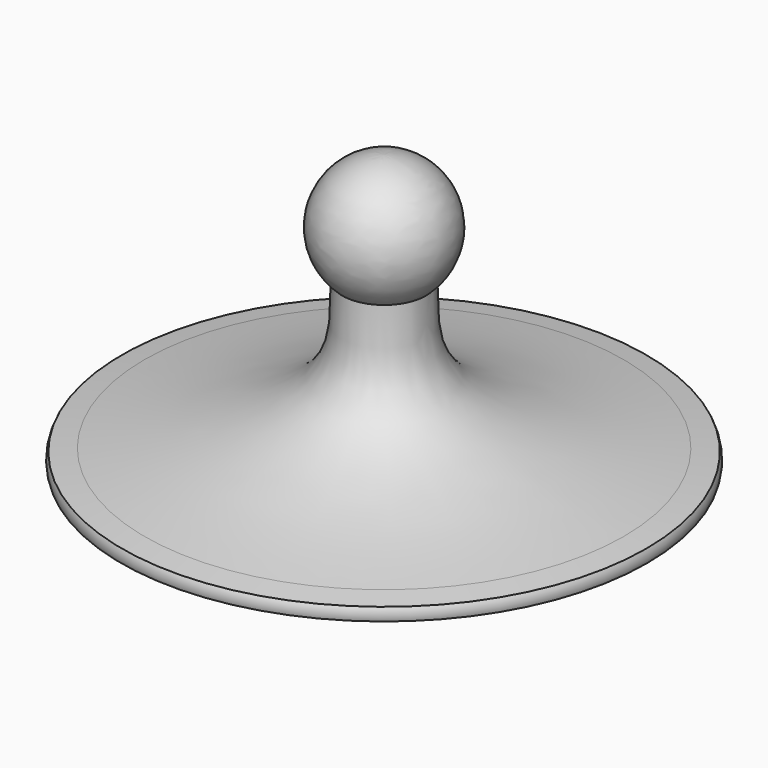
from build123d import *


with BuildPart() as f1:
    # F0 (on Front) → F1 (revolve)
    with BuildSketch(Plane.XZ):
        with BuildLine():
            Line((0, 26), (0, 0))
            Line((0, 0), (25, 0))
            ThreePointArc((25, 0), (25.08637, 0.603367), (24.924373, 1.190963))
            add(Edge.make_bspline(
                [(24.924373, 1.190963), (24.180118, 1.29239), (23.462408, 1.396241), (22.77029, 1.502468)],
                knots=[0, 0, 0, 0, 0.849373, 0.849373, 0.849373, 0.849373], degree=3))
            add(Edge.make_bspline(
                [(22.77029, 1.502468), (2.767124, 4.572583), (4.141924, 9.627804), (3.963023, 15.531531)],
                knots=[0.849373, 0.849373, 0.849373, 0.849373, 25.397442, 25.397442, 25.397442, 25.397442], degree=3))
            ThreePointArc((3.963023, 15.531531), (5.570449, 22.124421), (0, 26))
        make_face()
    revolve(axis=Axis((0, 0, 13), (0, 0, -1)))


solid = f1.part
